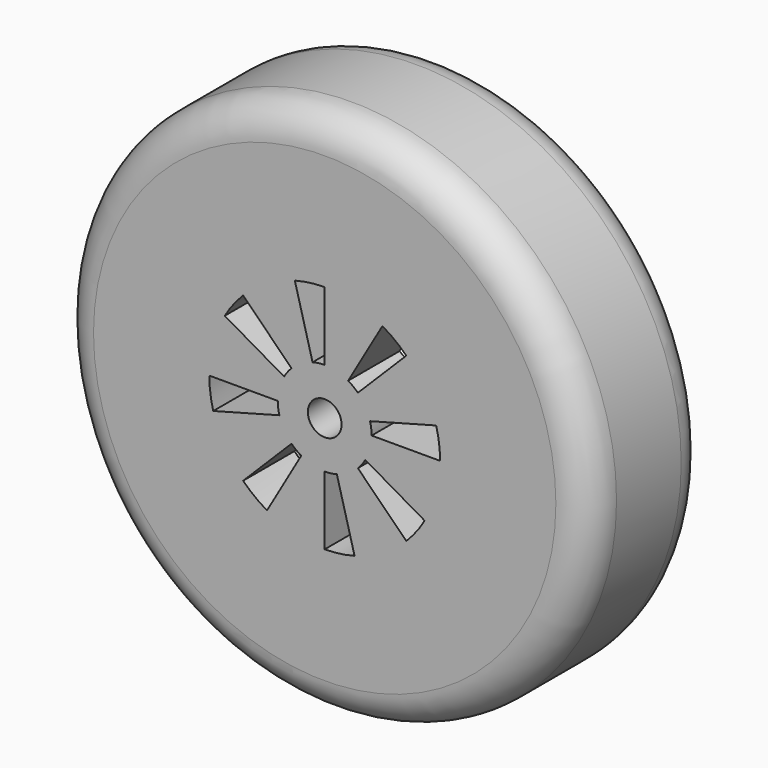
from build123d import *

# Parameters (mm, degrees)
F2_R     = 1
F3_DEPTH = 8.79914
F4_R     = 2
F5_R     = 2


with BuildPart() as f1:
    # F0 (on Top) → F1 (revolve)
    with BuildSketch(Plane.XY):
        with BuildLine():
            Line((0, 3.79914), (0, 0))
            Line((0, 0), (15.723543, 0))
            Line((15.723543, 0), (15.723543, 8.79914))
            Line((15.723543, 8.79914), (11.849537, 8.79914))
            ThreePointArc((11.849537, 8.79914), (10.385071, 5.263606), (6.849537, 3.79914))
            Line((6.849537, 3.79914), (0, 3.79914))
        make_face()
    revolve(axis=Axis((0, 5, 0), (0, 1, 0)))

    # F2 (on face) → F3 (cut, through all)
    with BuildSketch(Plane(origin=(0, 8.79914, 0), x_dir=(-1, 0, 0), z_dir=(0, 1, 0))):
        with BuildLine():
            ThreePointArc((0, 2.785922), (0.363636, 2.762088), (0.72105, 2.690994))
            Line((0.72105, 2.690994), (1.772791, 6.616145))
            ThreePointArc((1.772791, 6.616145), (0.894044, 6.790939), (0, 6.849537))
            Line((0, 6.849537), (0, 2.785922))
        make_face()
        with BuildLine():
            ThreePointArc((-3.424769, 5.931873), (-4.169734, 5.434103), (-4.843354, 4.843354))
            Line((-4.843354, 4.843354), (-1.969944, 1.969944))
            ThreePointArc((-1.969944, 1.969944), (-1.695962, 2.21022), (-1.392961, 2.412679))
            Line((-1.392961, 2.412679), (-3.424769, 5.931873))
        make_face()
        with BuildLine():
            ThreePointArc((-6.616145, 1.772791), (-6.790939, 0.894044), (-6.849537, 0))
            Line((-6.849537, 0), (-2.785922, 0))
            ThreePointArc((-2.785922, 0), (-2.762088, 0.363636), (-2.690994, 0.72105))
            Line((-2.690994, 0.72105), (-6.616145, 1.772791))
        make_face()
        with BuildLine():
            ThreePointArc((-5.931873, -3.424769), (-5.434103, -4.169734), (-4.843354, -4.843354))
            Line((-4.843354, -4.843354), (-1.969944, -1.969944))
            ThreePointArc((-1.969944, -1.969944), (-2.21022, -1.695962), (-2.412679, -1.392961))
            Line((-2.412679, -1.392961), (-5.931873, -3.424769))
        make_face()
        with BuildLine():
            ThreePointArc((-1.772791, -6.616145), (-0.894044, -6.790939), (0, -6.849537))
            Line((0, -6.849537), (0, -2.785922))
            ThreePointArc((0, -2.785922), (-0.363636, -2.762088), (-0.72105, -2.690994))
            Line((-0.72105, -2.690994), (-1.772791, -6.616145))
        make_face()
        with BuildLine():
            ThreePointArc((3.424769, -5.931873), (4.169734, -5.434103), (4.843354, -4.843354))
            Line((4.843354, -4.843354), (1.969944, -1.969944))
            ThreePointArc((1.969944, -1.969944), (1.695962, -2.21022), (1.392961, -2.412679))
            Line((1.392961, -2.412679), (3.424769, -5.931873))
        make_face()
        with BuildLine():
            ThreePointArc((6.616145, -1.772791), (6.790939, -0.894044), (6.849537, 0))
            Line((6.849537, 0), (2.785922, 0))
            ThreePointArc((2.785922, 0), (2.762088, -0.363636), (2.690994, -0.72105))
            Line((2.690994, -0.72105), (6.616145, -1.772791))
        make_face()
        with BuildLine():
            ThreePointArc((5.931873, 3.424769), (5.434103, 4.169734), (4.843354, 4.843354))
            Line((4.843354, 4.843354), (1.969944, 1.969944))
            ThreePointArc((1.969944, 1.969944), (2.21022, 1.695962), (2.412679, 1.392961))
            Line((2.412679, 1.392961), (5.931873, 3.424769))
        make_face()
        Circle(F2_R)
    extrude(amount=-F3_DEPTH, mode=Mode.SUBTRACT)

    # F4
    f4_edges = [f1.edges().sort_by_distance(p)[0] for p in [
        (-15.723543, 8.79914, 0),
    ]]
    fillet(f4_edges, radius=F4_R)

    # F5
    f5_edges = [f1.edges().sort_by_distance(p)[0] for p in [
        (-15.723543, 0, 0),
    ]]
    fillet(f5_edges, radius=F5_R)


solid = f1.part
